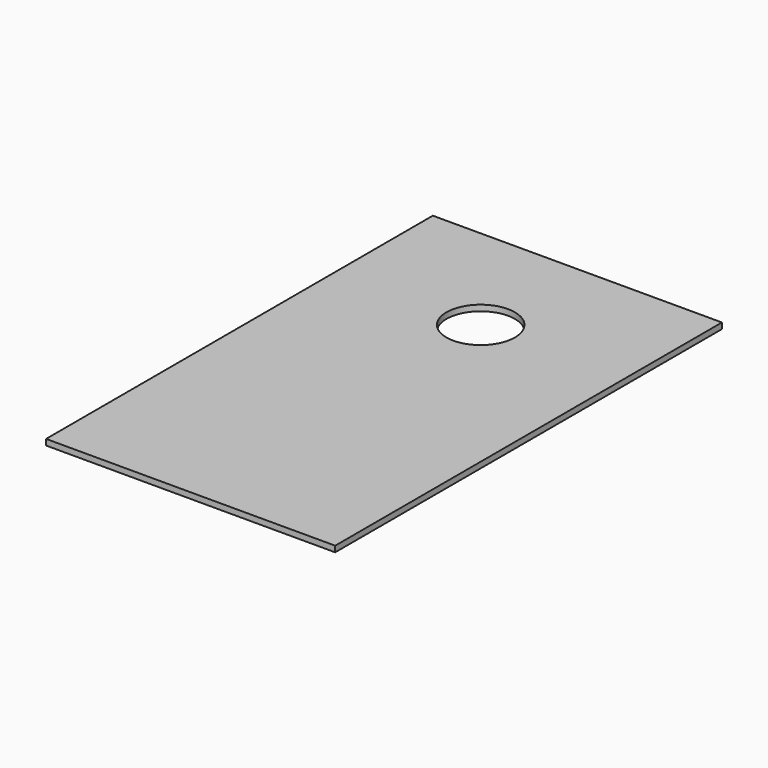
from build123d import *

# Parameters (mm, degrees)
SKETCH_W      = 295.275
SKETCH_H      = 493.7252
SKETCH_R      = 34.925
EXTRUDE_DEPTH = 5.9944


with BuildPart() as part:
    # Sketch → Extrude (new body)
    with BuildSketch(Plane.XY):
        with Locations((25.336997, -83.321086)):
            Rectangle(SKETCH_W, SKETCH_H)
        with Locations((25.349697, 40.122914)):
            Circle(SKETCH_R, mode=Mode.SUBTRACT)
    extrude(amount=EXTRUDE_DEPTH)


solid = part.part
